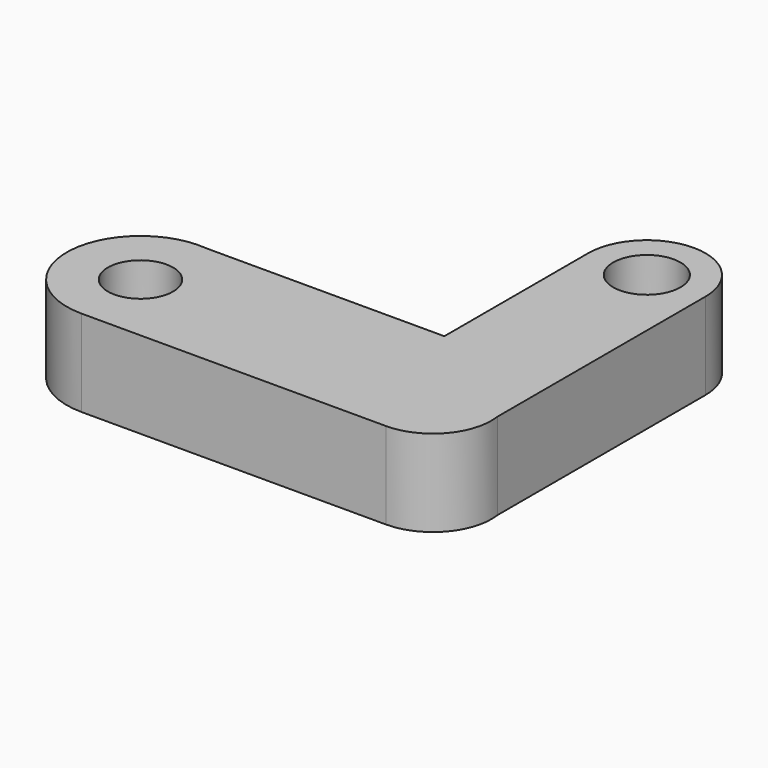
from build123d import *

# Parameters (mm, degrees)
F0_R     = 1.881022
F0_R_2   = 1.942209
F1_DEPTH = 5


with BuildPart() as f1:
    # F0 (on Top) → F1 (new body)
    with BuildSketch(Plane.XY):
        with BuildLine():
            ThreePointArc((-10.141898, 9.43031), (-14.818735, 5.412834), (-10.570469, 0.944595))
            Line((-10.570469, 0.944595), (7.000959, 0.944595))
            ThreePointArc((7.000959, 0.944595), (9.553028, 2.109944), (10.343815, 4.801738))
            Line((10.343815, 4.801738), (10.343815, 19.801738))
            ThreePointArc((10.343815, 19.801738), (6.958101, 23.187452), (3.572387, 19.801738))
            add(Edge.make_bspline(
                [(3.572387, 9.43031), (3.572387, 12.887452), (3.572387, 16.344595), (3.572387, 19.801738)],
                knots=[0, 0, 0, 0, 10.371429, 10.371429, 10.371429, 10.371429], degree=3))
            add(Edge.make_bspline(
                [(-10.141898, 9.43031), (-5.570469, 9.43031), (-0.999041, 9.43031), (3.572387, 9.43031)],
                knots=[0, 0, 0, 0, 13.714285, 13.714285, 13.714285, 13.714285], degree=3))
        make_face()
        with Locations((-10.570469, 5.198275)):
            Circle(F0_R, mode=Mode.SUBTRACT)
        with Locations((6.958101, 19.801738)):
            Circle(F0_R_2, mode=Mode.SUBTRACT)
    extrude(amount=F1_DEPTH)


solid = f1.part
